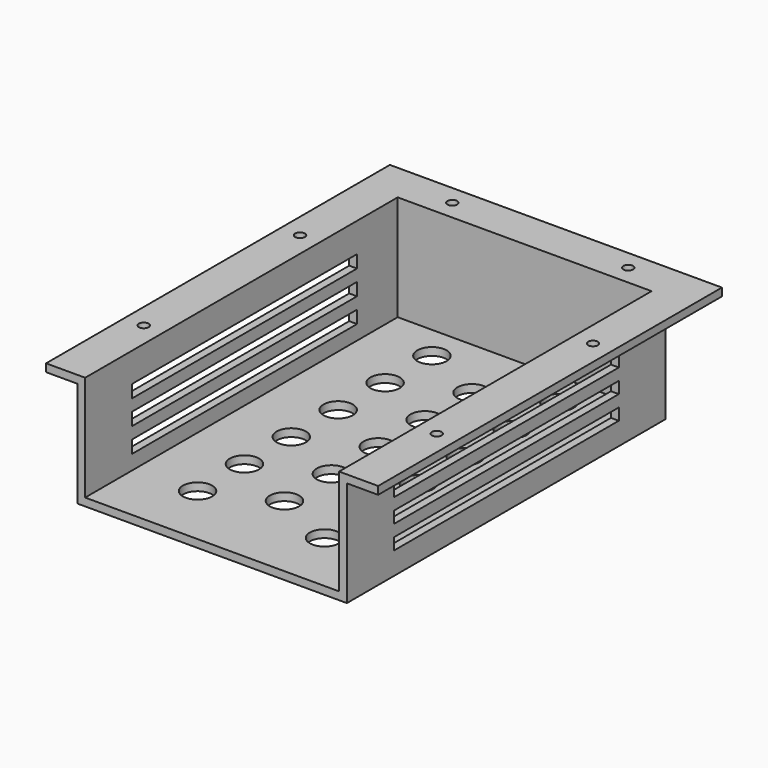
from build123d import *

# Parameters (mm, degrees)
F0_W      = 165.1
F0_H      = 254
F1_DEPTH  = 63.5
F2_T      = 5.08
F0_W_2    = 25.4
F3_DEPTH  = 5.08
F5_D      = 6.35
F7_D      = 19.05
F8_W      = 182.88
F8_H      = 8.2663088166
F9_DEPTH  = 25.4
F10_W     = 182.88
F10_H     = 7.62
F11_DEPTH = 25.4


with BuildPart() as f1:
    # F0 (on Top) → F1 (new body)
    with BuildSketch(Plane.XY):
        with Locations((1.211356771, 1.3005096912)):
            Rectangle(F0_W, F0_H)
    extrude(amount=-F1_DEPTH)

    # F2
    f2_openings = [f1.faces().sort_by_distance(p)[0] for p in [
        (1.211357, -125.69949, -31.75),
        (1.211357, 1.30051, 0),
    ]]
    offset(amount=F2_T, openings=f2_openings, kind=Kind.INTERSECTION)

    # F0 (on Top) → F3 (join)
    with BuildSketch(Plane.XY):
        with Locations((-94.038643229, 1.3005096912)):
            Rectangle(F0_W_2, F0_H)
        Polygon((-106.738643229, 128.3005096912), (-81.338643229, 128.3005096912), (83.761356771, 128.3005096912), (109.161356771, 128.3005096912), (109.161356771, 153.7005096912), (-106.738643229, 153.7005096912), align=None)
        with Locations((96.461356771, 1.3005096912)):
            Rectangle(F0_W_2, F0_H)
    extrude(amount=F3_DEPTH)

    # F5 (through all)
    with Locations(Plane(origin=(0, 0, 0), x_dir=(1, 0, 0), z_dir=(0, 0, -1))):
        with Locations((-94.038643229, -64.8005096912), (-94.038643229, 62.1994903088), (-55.938643229, -141.0005096912), (96.461356771, 62.1994903088), (96.461356771, -64.8005096912), (58.361356771, -141.0005096912)):
            Hole(F5_D / 2)

    # F7 (through all)
    with Locations(Plane.XY.offset(-63.5)):
        with Locations((-41.275, 106.0755096912), (41.275, 106.0755096912), (41.275, 67.9755096912), (0, 87.0255096912), (-41.275, 67.9755096912), (0, 48.9255096912), (41.275, 29.8755096912), (-41.275, 29.8755096912), (0, 10.8255096912), (-41.275, -8.2244903088), (41.275, -8.2244903088), (0, -27.2744903088), (41.275, -46.3244903088), (-41.275, -46.3244903088), (0, -65.3744903088), (41.275, -84.4244903088), (-41.275, -84.4244903088)):
            Hole(F7_D / 2)

    # F8 (on face) → F9 (cut)
    with BuildSketch(Plane(origin=(-86.418643229, 0, 0), x_dir=(0, -1, 0), z_dir=(-1, 0, 0))):
        with Locations((-3.8405096912, -18.1031544083)):
            Rectangle(F8_W, F8_H)
        with Locations((-3.8405096912, -33.9944171529)):
            Rectangle(F8_W, F8_H)
        with Locations((-3.8405096912, -49.8807259695)):
            Rectangle(F8_W, F8_H)
    extrude(amount=-F9_DEPTH, mode=Mode.SUBTRACT)

    # F10 (on face) → F11 (cut)
    with BuildSketch(Plane.YZ.offset(88.841356771)):
        with Locations((3.8405096912, -19.7358)):
            Rectangle(F10_W, F10_H)
        with Locations((3.8405096912, -34.9758)):
            Rectangle(F10_W, F10_H)
        with Locations((3.8405096912, -50.2158)):
            Rectangle(F10_W, F10_H)
    extrude(amount=-F11_DEPTH, mode=Mode.SUBTRACT)


solid = f1.part
